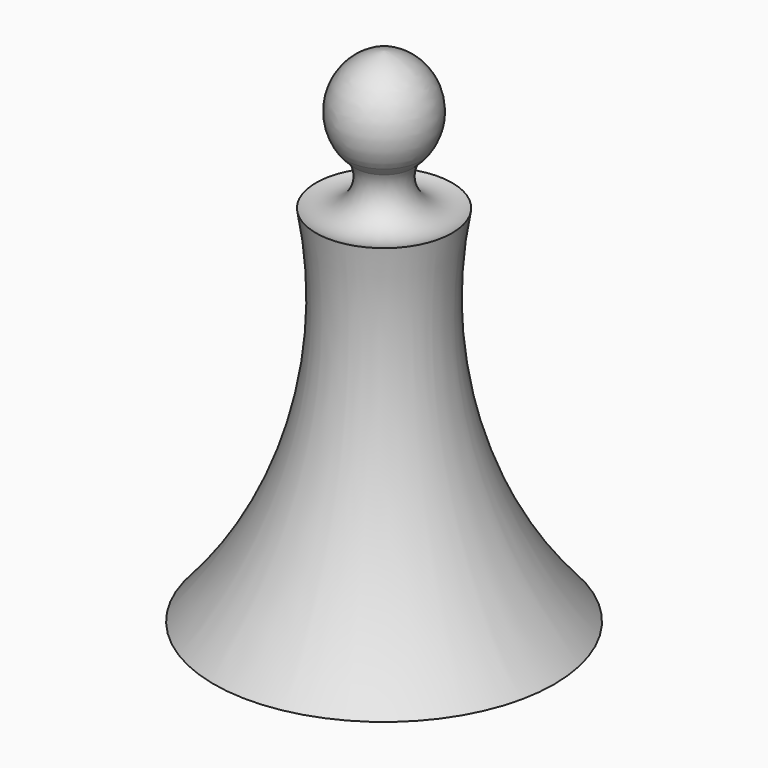
from build123d import *


with BuildPart() as f1:
    # F0 (on Front) → F1 (revolve)
    with BuildSketch(Plane.XZ):
        with BuildLine():
            ThreePointArc((7.431677, 37.623272), (8.52541, 48.151641), (0, 54.425411))
            Line((0, 54.425411), (0, 33.259969))
            ThreePointArc((0, 33.259969), (2.957414, 34.042098), (5.570603, 35.632465))
            ThreePointArc((5.570603, 35.632465), (6.389329, 36.732393), (7.431677, 37.623272))
        make_face()
        with BuildLine():
            ThreePointArc((5.570603, 35.632465), (2.957414, 34.042098), (0, 33.259969))
            Line((0, 33.259969), (0, -44.191573))
            Line((0, -44.191573), (33.725146, -45.121916))
            ThreePointArc((33.725146, -45.121916), (15.161838, -11.441162), (13.490059, 26.980117))
            ThreePointArc((13.490059, 26.980117), (6.345417, 28.391154), (5.570603, 35.632465))
        make_face()
        with BuildLine():
            ThreePointArc((5.570603, 35.632465), (6.565066, 36.568108), (7.431677, 37.623272))
            ThreePointArc((7.431677, 37.623272), (6.389329, 36.732393), (5.570603, 35.632465))
        make_face()
    revolve(axis=Axis((0, 0, 5.116919), (0, 0, -1)))


solid = f1.part
